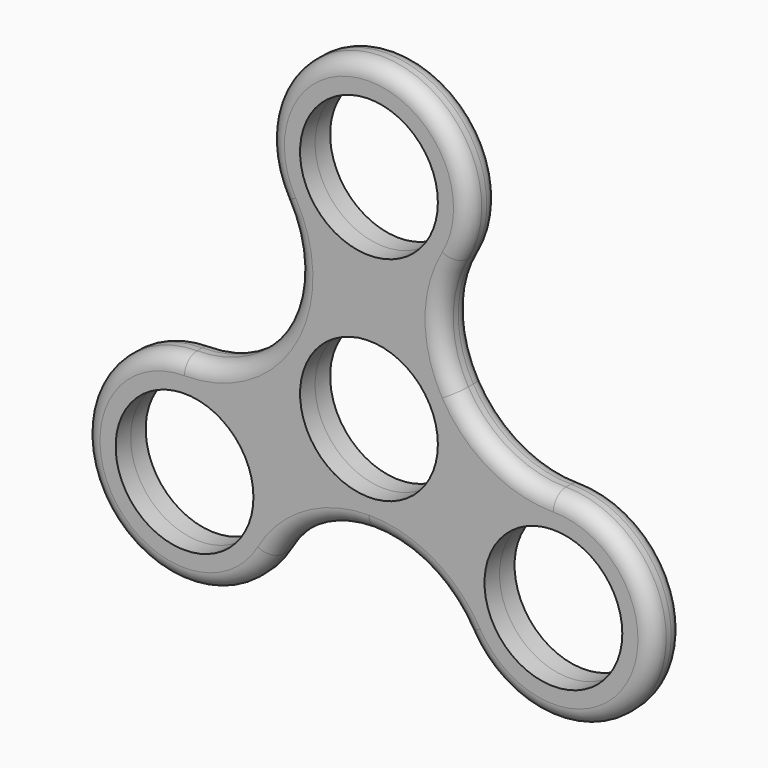
from build123d import *

# Parameters (mm, degrees)
F0_R     = 11
F1_DEPTH = 3
F2_R     = 2.5
F3_R     = 2.5


with BuildPart() as f1:
    # F0 (on Front) → F1 (new body, symmetric)
    with BuildSketch(Plane.XZ):
        with BuildLine():
            ThreePointArc((13.8564064606, 26), (15.4548132206, 29.8588952784), (16, 34))
            ThreePointArc((16, 34), (-4.1411047216, 49.4548132206), (-13.8564064606, 26))
            ThreePointArc((-13.8564064606, 26), (0, 18), (13.8564064606, 26))
        make_face()
        with Locations((0, 34)):
            Circle(F0_R, mode=Mode.SUBTRACT)
        with BuildLine():
            ThreePointArc((13.8564064606, 26), (0, 18), (-13.8564064606, 26))
            ThreePointArc((-13.8564064606, 26), (-11.4448637287, 17), (-13.8564064606, 8))
            ThreePointArc((-13.8564064606, 8), (0, 16), (13.8564064606, 8))
            ThreePointArc((13.8564064606, 8), (11.4448637287, 17), (13.8564064606, 26))
        make_face()
        with BuildLine():
            ThreePointArc((13.8564064606, 8), (0, 16), (-13.8564064606, 8))
            ThreePointArc((-13.8564064606, 8), (-13.8564064606, -8), (0, -16))
            ThreePointArc((0, -16), (11.313708499, -11.313708499), (16, 0))
            ThreePointArc((16, 0), (15.4548132206, 4.1411047216), (13.8564064606, 8))
        make_face()
        Circle(F0_R, mode=Mode.SUBTRACT)
        with BuildLine():
            ThreePointArc((0, -16), (-13.8564064606, -8), (-13.8564064606, 8))
            ThreePointArc((-13.8564064606, 8), (-20.4448637287, 1.4115427319), (-29.4448637287, -1))
            ThreePointArc((-29.4448637287, -1), (-18.1311552297, -5.686291501), (-13.4448637287, -17))
            ThreePointArc((-13.4448637287, -17), (-13.990050508, -21.1411047216), (-15.5884572681, -25))
            ThreePointArc((-15.5884572681, -25), (-9, -18.4115427319), (0, -16))
        make_face()
        with BuildLine():
            ThreePointArc((29.4448637287, -1), (20.4448637287, 1.4115427319), (13.8564064606, 8))
            ThreePointArc((13.8564064606, 8), (15.4548132206, 4.1411047216), (16, 0))
            ThreePointArc((16, 0), (11.313708499, -11.313708499), (0, -16))
            ThreePointArc((0, -16), (9, -18.4115427319), (15.5884572681, -25))
            ThreePointArc((15.5884572681, -25), (15.5884572681, -9), (29.4448637287, -1))
        make_face()
        with BuildLine():
            ThreePointArc((-13.4448637287, -17), (-18.1311552297, -5.686291501), (-29.4448637287, -1))
            ThreePointArc((-29.4448637287, -1), (-43.3012701892, -25), (-15.5884572681, -25))
            ThreePointArc((-15.5884572681, -25), (-13.990050508, -21.1411047216), (-13.4448637287, -17))
        make_face()
        with Locations((-29.4448637287, -17)):
            Circle(F0_R, mode=Mode.SUBTRACT)
        with BuildLine():
            ThreePointArc((45.4448637287, -17), (40.7585722277, -5.686291501), (29.4448637287, -1))
            ThreePointArc((29.4448637287, -1), (15.5884572681, -9), (15.5884572681, -25))
            ThreePointArc((15.5884572681, -25), (33.5859684503, -32.4548132206), (45.4448637287, -17))
        make_face()
        with Locations((29.4448637287, -17)):
            Circle(F0_R, mode=Mode.SUBTRACT)
    extrude(amount=F1_DEPTH, both=True)

    # F2
    f2_edges = [f1.edges().sort_by_distance(p)[0] for p in [
        (0, -3, 50),
    ]]
    fillet(f2_edges, radius=F2_R)

    # F3
    f3_edges = [f1.edges().sort_by_distance(p)[0] for p in [
        (13.856406, 3, 8),
    ]]
    fillet(f3_edges, radius=F3_R)


solid = f1.part
